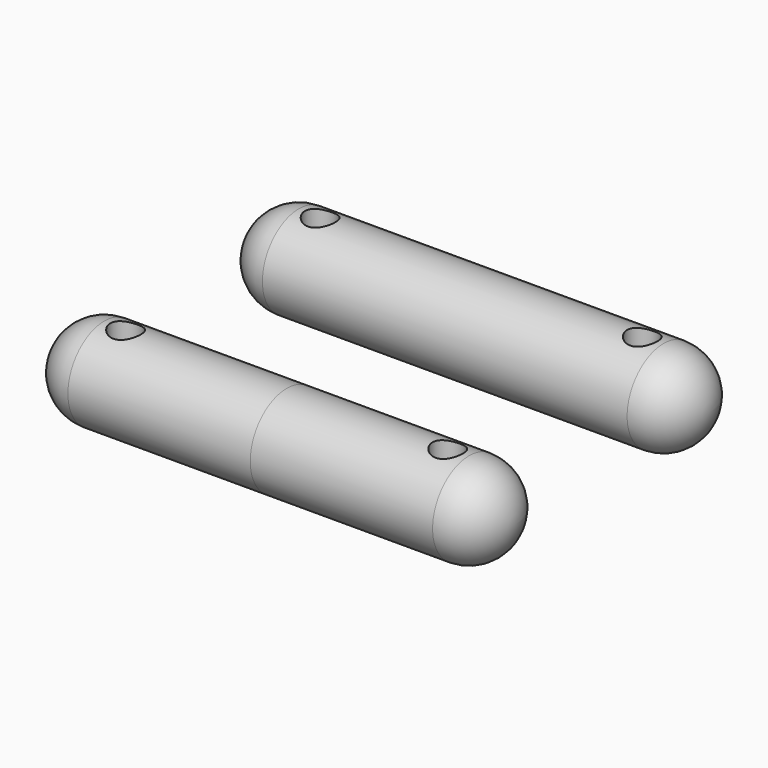
from build123d import *

# Parameters (mm, degrees)
F0_R     = 15
F1_DEPTH = 75
F2_R     = 15
F3_R     = 5
F4_DEPTH = 15


with BuildPart() as f1:
    # F0 (on Right) → F1 (new body, symmetric)
    with BuildSketch(Plane.YZ):
        with Locations((-40, 0)):
            Circle(F0_R)
        with Locations((40, 0)):
            Circle(F0_R)
    extrude(amount=F1_DEPTH, both=True)

    # F2
    f2_edges = [f1.edges().sort_by_distance(p)[0] for p in [
        (75, -55, 0),
        (75, 25, 0),
        (-75, -55, 0),
        (-75, 25, 0),
    ]]
    fillet(f2_edges, radius=F2_R)

    # F3 (on Top) → F4 (cut, symmetric)
    with BuildSketch(Plane.XY):
        with Locations((-53, 40)):
            Circle(F3_R)
        with Locations((-53, -40)):
            Circle(F3_R)
        with Locations((53, -40)):
            Circle(F3_R)
        with Locations((53, 40)):
            Circle(F3_R)
    extrude(amount=F4_DEPTH, both=True, mode=Mode.SUBTRACT)


solid = f1.part
